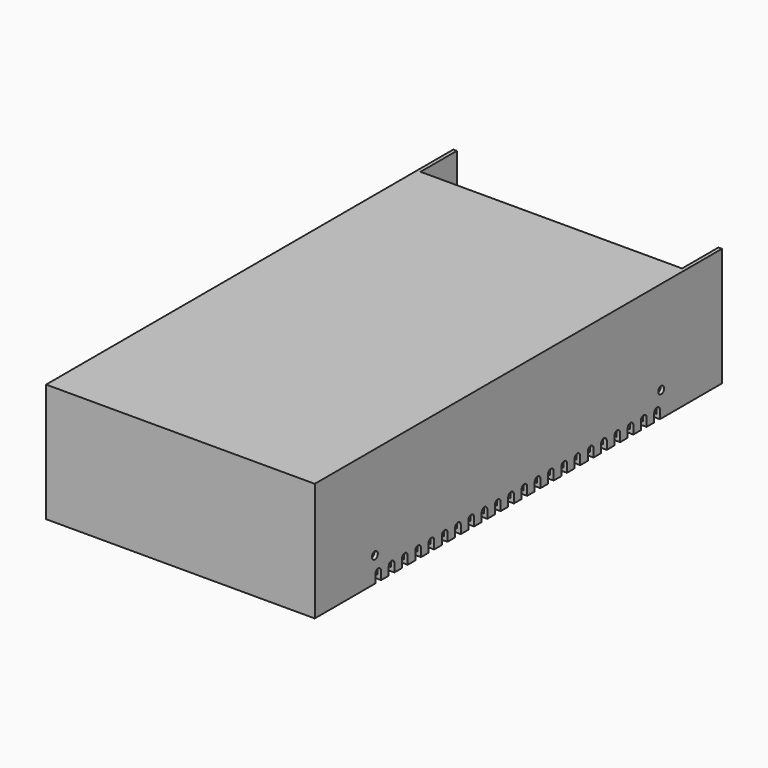
from build123d import *

# Parameters (mm, degrees)
F0_W      = 113.35
F0_H      = 214.709
F1_DEPTH  = 50
F3_T      = -1.5
F2_R      = 1.56
F4_DEPTH  = 1.5
F6_DEPTH  = 1.5
F7_W      = 110.35
F7_H      = 19.129
F8_DEPTH  = 1.5
F9_R      = 1.56
F10_DEPTH = 1.5
F11_R     = 1.56
F12_DEPTH = 1.5


with BuildPart() as f1:
    # F0 (on Top) → F1 (new body)
    with BuildSketch(Plane.XY):
        with Locations((0, 0.0001)):
            Rectangle(F0_W, F0_H)
    extrude(amount=F1_DEPTH)

    # F3
    f3_openings = [f1.faces().sort_by_distance(p)[0] for p in [
        (0, 107.3546, 25),
    ]]
    offset(amount=F3_T, openings=f3_openings)

    # F2 (on face) → F4 (cut, through all)
    with BuildSketch(Plane(origin=(0, 0, 0), x_dir=(1, 0, 0), z_dir=(0, 0, -1))):
        with Locations((25, -74.9956)):
            Circle(F2_R)
        with Locations((-25, -74.9956)):
            Circle(F2_R)
        with Locations((25, 75.7944)):
            Circle(F2_R)
        with Locations((-25, 75.7944)):
            Circle(F2_R)
    extrude(amount=-F4_DEPTH, mode=Mode.SUBTRACT)

    # F5 (on face) → F6 (cut)
    with BuildSketch(Plane(origin=(0, 0, 0), x_dir=(1, 0, 0), z_dir=(0, 0, -1))):
        with BuildLine():
            ThreePointArc((-37.395, 75.3544), (-38.895, 73.8544), (-37.395, 72.3544))
            Line((-37.395, 72.3544), (-37.395, 75.3544))
        make_face()
        with BuildLine():
            Line((-56.675, 72.3544), (-37.395, 72.3544))
            ThreePointArc((-37.395, 72.3544), (-38.895, 73.8544), (-37.395, 75.3544))
            Line((-37.395, 75.3544), (-56.675, 75.3544))
            Line((-56.675, 75.3544), (-56.675, 72.3544))
        make_face()
        with BuildLine():
            Line((-37.395, 75.3544), (-37.395, 72.3544))
            ThreePointArc((-37.395, 72.3544), (-36.3343398282, 72.7937398282), (-35.895, 73.8544))
            ThreePointArc((-35.895, 73.8544), (-36.3343398282, 74.9150601718), (-37.395, 75.3544))
        make_face()
        with BuildLine():
            ThreePointArc((38.895, 73.8544), (38.4556601718, 72.7937398282), (37.395, 72.3544))
            Line((37.395, 72.3544), (56.675, 72.3544))
            Line((56.675, 72.3544), (56.675, 75.3544))
            Line((56.675, 75.3544), (37.395, 75.3544))
            ThreePointArc((37.395, 75.3544), (38.4556601718, 74.9150601718), (38.895, 73.8544))
        make_face()
        with BuildLine():
            ThreePointArc((37.395, 75.3544), (35.895, 73.8544), (37.395, 72.3544))
            ThreePointArc((37.395, 72.3544), (38.4556601718, 72.7937398282), (38.895, 73.8544))
            ThreePointArc((38.895, 73.8544), (38.4556601718, 74.9150601718), (37.395, 75.3544))
        make_face()
        with BuildLine():
            Line((-56.675, 65.3544), (-37.395, 65.3544))
            ThreePointArc((-37.395, 65.3544), (-38.895, 66.8544), (-37.395, 68.3544))
            Line((-37.395, 68.3544), (-56.675, 68.3544))
            Line((-56.675, 68.3544), (-56.675, 65.3544))
        make_face()
        with BuildLine():
            ThreePointArc((-37.395, 68.3544), (-38.895, 66.8544), (-37.395, 65.3544))
            ThreePointArc((-37.395, 65.3544), (-36.3343398282, 65.7937398282), (-35.895, 66.8544))
            ThreePointArc((-35.895, 66.8544), (-36.3343398282, 67.9150601718), (-37.395, 68.3544))
        make_face()
        with BuildLine():
            ThreePointArc((37.395, 65.3544), (38.4556601718, 65.7937398282), (38.895, 66.8544))
            ThreePointArc((38.895, 66.8544), (38.4556601718, 67.9150601718), (37.395, 68.3544))
            ThreePointArc((37.395, 68.3544), (35.895, 66.8544), (37.395, 65.3544))
        make_face()
        with BuildLine():
            ThreePointArc((37.395, 68.3544), (38.4556601718, 67.9150601718), (38.895, 66.8544))
            ThreePointArc((38.895, 66.8544), (38.4556601718, 65.7937398282), (37.395, 65.3544))
            Line((37.395, 65.3544), (56.675, 65.3544))
            Line((56.675, 65.3544), (56.675, 68.3544))
            Line((56.675, 68.3544), (37.395, 68.3544))
        make_face()
        with BuildLine():
            Line((-56.675, 58.3544), (-37.395, 58.3544))
            ThreePointArc((-37.395, 58.3544), (-38.895, 59.8544), (-37.395, 61.3544))
            Line((-37.395, 61.3544), (-56.675, 61.3544))
            Line((-56.675, 61.3544), (-56.675, 58.3544))
        make_face()
        with BuildLine():
            ThreePointArc((-37.395, 61.3544), (-38.895, 59.8544), (-37.395, 58.3544))
            ThreePointArc((-37.395, 58.3544), (-36.3343398282, 58.7937398282), (-35.895, 59.8544))
            ThreePointArc((-35.895, 59.8544), (-36.3343398282, 60.9150601718), (-37.395, 61.3544))
        make_face()
        with BuildLine():
            ThreePointArc((37.395, 58.3544), (38.4556601718, 58.7937398282), (38.895, 59.8544))
            ThreePointArc((38.895, 59.8544), (38.4556601718, 60.9150601718), (37.395, 61.3544))
            ThreePointArc((37.395, 61.3544), (35.895, 59.8544), (37.395, 58.3544))
        make_face()
        with BuildLine():
            ThreePointArc((37.395, 61.3544), (38.4556601718, 60.9150601718), (38.895, 59.8544))
            ThreePointArc((38.895, 59.8544), (38.4556601718, 58.7937398282), (37.395, 58.3544))
            Line((37.395, 58.3544), (56.675, 58.3544))
            Line((56.675, 58.3544), (56.675, 61.3544))
            Line((56.675, 61.3544), (37.395, 61.3544))
        make_face()
        with BuildLine():
            Line((-56.675, 51.3544), (-37.395, 51.3544))
            ThreePointArc((-37.395, 51.3544), (-38.895, 52.8544), (-37.395, 54.3544))
            Line((-37.395, 54.3544), (-56.675, 54.3544))
            Line((-56.675, 54.3544), (-56.675, 51.3544))
        make_face()
        with BuildLine():
            ThreePointArc((-37.395, 54.3544), (-38.895, 52.8544), (-37.395, 51.3544))
            ThreePointArc((-37.395, 51.3544), (-36.3343398282, 51.7937398282), (-35.895, 52.8544))
            ThreePointArc((-35.895, 52.8544), (-36.3343398282, 53.9150601718), (-37.395, 54.3544))
        make_face()
        with BuildLine():
            ThreePointArc((37.395, 51.3544), (38.4556601718, 51.7937398282), (38.895, 52.8544))
            ThreePointArc((38.895, 52.8544), (38.4556601718, 53.9150601718), (37.395, 54.3544))
            ThreePointArc((37.395, 54.3544), (35.895, 52.8544), (37.395, 51.3544))
        make_face()
        with BuildLine():
            ThreePointArc((37.395, 54.3544), (38.4556601718, 53.9150601718), (38.895, 52.8544))
            ThreePointArc((38.895, 52.8544), (38.4556601718, 51.7937398282), (37.395, 51.3544))
            Line((37.395, 51.3544), (56.675, 51.3544))
            Line((56.675, 51.3544), (56.675, 54.3544))
            Line((56.675, 54.3544), (37.395, 54.3544))
        make_face()
        with BuildLine():
            Line((-56.675, 44.3544), (-37.395, 44.3544))
            ThreePointArc((-37.395, 44.3544), (-38.895, 45.8544), (-37.395, 47.3544))
            Line((-37.395, 47.3544), (-56.675, 47.3544))
            Line((-56.675, 47.3544), (-56.675, 44.3544))
        make_face()
        with BuildLine():
            ThreePointArc((-37.395, 47.3544), (-38.895, 45.8544), (-37.395, 44.3544))
            ThreePointArc((-37.395, 44.3544), (-36.3343398282, 44.7937398282), (-35.895, 45.8544))
            ThreePointArc((-35.895, 45.8544), (-36.3343398282, 46.9150601718), (-37.395, 47.3544))
        make_face()
        with BuildLine():
            ThreePointArc((37.395, 44.3544), (38.4556601718, 44.7937398282), (38.895, 45.8544))
            ThreePointArc((38.895, 45.8544), (38.4556601718, 46.9150601718), (37.395, 47.3544))
            ThreePointArc((37.395, 47.3544), (35.895, 45.8544), (37.395, 44.3544))
        make_face()
        with BuildLine():
            ThreePointArc((37.395, 47.3544), (38.4556601718, 46.9150601718), (38.895, 45.8544))
            ThreePointArc((38.895, 45.8544), (38.4556601718, 44.7937398282), (37.395, 44.3544))
            Line((37.395, 44.3544), (56.675, 44.3544))
            Line((56.675, 44.3544), (56.675, 47.3544))
            Line((56.675, 47.3544), (37.395, 47.3544))
        make_face()
        with BuildLine():
            Line((-56.675, 37.3544), (-37.395, 37.3544))
            ThreePointArc((-37.395, 37.3544), (-38.895, 38.8544), (-37.395, 40.3544))
            Line((-37.395, 40.3544), (-56.675, 40.3544))
            Line((-56.675, 40.3544), (-56.675, 37.3544))
        make_face()
        with BuildLine():
            ThreePointArc((-37.395, 40.3544), (-38.895, 38.8544), (-37.395, 37.3544))
            ThreePointArc((-37.395, 37.3544), (-36.3343398282, 37.7937398282), (-35.895, 38.8544))
            ThreePointArc((-35.895, 38.8544), (-36.3343398282, 39.9150601718), (-37.395, 40.3544))
        make_face()
        with BuildLine():
            ThreePointArc((37.395, 37.3544), (38.4556601718, 37.7937398282), (38.895, 38.8544))
            ThreePointArc((38.895, 38.8544), (38.4556601718, 39.9150601718), (37.395, 40.3544))
            ThreePointArc((37.395, 40.3544), (35.895, 38.8544), (37.395, 37.3544))
        make_face()
        with BuildLine():
            ThreePointArc((37.395, 40.3544), (38.4556601718, 39.9150601718), (38.895, 38.8544))
            ThreePointArc((38.895, 38.8544), (38.4556601718, 37.7937398282), (37.395, 37.3544))
            Line((37.395, 37.3544), (56.675, 37.3544))
            Line((56.675, 37.3544), (56.675, 40.3544))
            Line((56.675, 40.3544), (37.395, 40.3544))
        make_face()
        with BuildLine():
            Line((-56.675, 30.3544), (-37.395, 30.3544))
            ThreePointArc((-37.395, 30.3544), (-38.895, 31.8544), (-37.395, 33.3544))
            Line((-37.395, 33.3544), (-56.675, 33.3544))
            Line((-56.675, 33.3544), (-56.675, 30.3544))
        make_face()
        with BuildLine():
            ThreePointArc((-37.395, 33.3544), (-38.895, 31.8544), (-37.395, 30.3544))
            ThreePointArc((-37.395, 30.3544), (-36.3343398282, 30.7937398282), (-35.895, 31.8544))
            ThreePointArc((-35.895, 31.8544), (-36.3343398282, 32.9150601718), (-37.395, 33.3544))
        make_face()
        with BuildLine():
            ThreePointArc((37.395, 30.3544), (38.4556601718, 30.7937398282), (38.895, 31.8544))
            ThreePointArc((38.895, 31.8544), (38.4556601718, 32.9150601718), (37.395, 33.3544))
            ThreePointArc((37.395, 33.3544), (35.895, 31.8544), (37.395, 30.3544))
        make_face()
        with BuildLine():
            ThreePointArc((37.395, 33.3544), (38.4556601718, 32.9150601718), (38.895, 31.8544))
            ThreePointArc((38.895, 31.8544), (38.4556601718, 30.7937398282), (37.395, 30.3544))
            Line((37.395, 30.3544), (56.675, 30.3544))
            Line((56.675, 30.3544), (56.675, 33.3544))
            Line((56.675, 33.3544), (37.395, 33.3544))
        make_face()
        with BuildLine():
            Line((-56.675, 23.3544), (-37.395, 23.3544))
            ThreePointArc((-37.395, 23.3544), (-38.895, 24.8544), (-37.395, 26.3544))
            Line((-37.395, 26.3544), (-56.675, 26.3544))
            Line((-56.675, 26.3544), (-56.675, 23.3544))
        make_face()
        with BuildLine():
            ThreePointArc((-37.395, 26.3544), (-38.895, 24.8544), (-37.395, 23.3544))
            ThreePointArc((-37.395, 23.3544), (-36.3343398282, 23.7937398282), (-35.895, 24.8544))
            ThreePointArc((-35.895, 24.8544), (-36.3343398282, 25.9150601718), (-37.395, 26.3544))
        make_face()
        with BuildLine():
            ThreePointArc((37.395, 23.3544), (38.4556601718, 23.7937398282), (38.895, 24.8544))
            ThreePointArc((38.895, 24.8544), (38.4556601718, 25.9150601718), (37.395, 26.3544))
            ThreePointArc((37.395, 26.3544), (35.895, 24.8544), (37.395, 23.3544))
        make_face()
        with BuildLine():
            ThreePointArc((37.395, 26.3544), (38.4556601718, 25.9150601718), (38.895, 24.8544))
            ThreePointArc((38.895, 24.8544), (38.4556601718, 23.7937398282), (37.395, 23.3544))
            Line((37.395, 23.3544), (56.675, 23.3544))
            Line((56.675, 23.3544), (56.675, 26.3544))
            Line((56.675, 26.3544), (37.395, 26.3544))
        make_face()
        with BuildLine():
            Line((-56.675, 16.3544), (-37.395, 16.3544))
            ThreePointArc((-37.395, 16.3544), (-38.895, 17.8544), (-37.395, 19.3544))
            Line((-37.395, 19.3544), (-56.675, 19.3544))
            Line((-56.675, 19.3544), (-56.675, 16.3544))
        make_face()
        with BuildLine():
            ThreePointArc((-37.395, 19.3544), (-38.895, 17.8544), (-37.395, 16.3544))
            ThreePointArc((-37.395, 16.3544), (-36.3343398282, 16.7937398282), (-35.895, 17.8544))
            ThreePointArc((-35.895, 17.8544), (-36.3343398282, 18.9150601718), (-37.395, 19.3544))
        make_face()
        with BuildLine():
            ThreePointArc((37.395, 16.3544), (38.4556601718, 16.7937398282), (38.895, 17.8544))
            ThreePointArc((38.895, 17.8544), (38.4556601718, 18.9150601718), (37.395, 19.3544))
            ThreePointArc((37.395, 19.3544), (35.895, 17.8544), (37.395, 16.3544))
        make_face()
        with BuildLine():
            ThreePointArc((37.395, 19.3544), (38.4556601718, 18.9150601718), (38.895, 17.8544))
            ThreePointArc((38.895, 17.8544), (38.4556601718, 16.7937398282), (37.395, 16.3544))
            Line((37.395, 16.3544), (56.675, 16.3544))
            Line((56.675, 16.3544), (56.675, 19.3544))
            Line((56.675, 19.3544), (37.395, 19.3544))
        make_face()
        with BuildLine():
            Line((-56.675, 9.3544), (-37.395, 9.3544))
            ThreePointArc((-37.395, 9.3544), (-38.895, 10.8544), (-37.395, 12.3544))
            Line((-37.395, 12.3544), (-56.675, 12.3544))
            Line((-56.675, 12.3544), (-56.675, 9.3544))
        make_face()
        with BuildLine():
            ThreePointArc((-37.395, 12.3544), (-38.895, 10.8544), (-37.395, 9.3544))
            ThreePointArc((-37.395, 9.3544), (-36.3343398282, 9.7937398282), (-35.895, 10.8544))
            ThreePointArc((-35.895, 10.8544), (-36.3343398282, 11.9150601718), (-37.395, 12.3544))
        make_face()
        with BuildLine():
            ThreePointArc((37.395, 9.3544), (38.4556601718, 9.7937398282), (38.895, 10.8544))
            ThreePointArc((38.895, 10.8544), (38.4556601718, 11.9150601718), (37.395, 12.3544))
            ThreePointArc((37.395, 12.3544), (35.895, 10.8544), (37.395, 9.3544))
        make_face()
        with BuildLine():
            ThreePointArc((37.395, 12.3544), (38.4556601718, 11.9150601718), (38.895, 10.8544))
            ThreePointArc((38.895, 10.8544), (38.4556601718, 9.7937398282), (37.395, 9.3544))
            Line((37.395, 9.3544), (56.675, 9.3544))
            Line((56.675, 9.3544), (56.675, 12.3544))
            Line((56.675, 12.3544), (37.395, 12.3544))
        make_face()
        with BuildLine():
            Line((-56.675, 2.3544), (-37.395, 2.3544))
            ThreePointArc((-37.395, 2.3544), (-38.895, 3.8544), (-37.395, 5.3544))
            Line((-37.395, 5.3544), (-56.675, 5.3544))
            Line((-56.675, 5.3544), (-56.675, 2.3544))
        make_face()
        with BuildLine():
            ThreePointArc((-37.395, 5.3544), (-38.895, 3.8544), (-37.395, 2.3544))
            ThreePointArc((-37.395, 2.3544), (-36.3343398282, 2.7937398282), (-35.895, 3.8544))
            ThreePointArc((-35.895, 3.8544), (-36.3343398282, 4.9150601718), (-37.395, 5.3544))
        make_face()
        with BuildLine():
            ThreePointArc((37.395, 2.3544), (38.4556601718, 2.7937398282), (38.895, 3.8544))
            ThreePointArc((38.895, 3.8544), (38.4556601718, 4.9150601718), (37.395, 5.3544))
            ThreePointArc((37.395, 5.3544), (35.895, 3.8544), (37.395, 2.3544))
        make_face()
        with BuildLine():
            ThreePointArc((37.395, 5.3544), (38.4556601718, 4.9150601718), (38.895, 3.8544))
            ThreePointArc((38.895, 3.8544), (38.4556601718, 2.7937398282), (37.395, 2.3544))
            Line((37.395, 2.3544), (56.675, 2.3544))
            Line((56.675, 2.3544), (56.675, 5.3544))
            Line((56.675, 5.3544), (37.395, 5.3544))
        make_face()
        with BuildLine():
            Line((-56.675, -4.6456), (-37.395, -4.6456))
            ThreePointArc((-37.395, -4.6456), (-38.895, -3.1456), (-37.395, -1.6456))
            Line((-37.395, -1.6456), (-56.675, -1.6456))
            Line((-56.675, -1.6456), (-56.675, -4.6456))
        make_face()
        with BuildLine():
            ThreePointArc((-37.395, -1.6456), (-38.895, -3.1456), (-37.395, -4.6456))
            ThreePointArc((-37.395, -4.6456), (-36.3343398282, -4.2062601718), (-35.895, -3.1456))
            ThreePointArc((-35.895, -3.1456), (-36.3343398282, -2.0849398282), (-37.395, -1.6456))
        make_face()
        with BuildLine():
            ThreePointArc((37.395, -4.6456), (38.4556601718, -4.2062601718), (38.895, -3.1456))
            ThreePointArc((38.895, -3.1456), (38.4556601718, -2.0849398282), (37.395, -1.6456))
            ThreePointArc((37.395, -1.6456), (35.895, -3.1456), (37.395, -4.6456))
        make_face()
        with BuildLine():
            ThreePointArc((37.395, -1.6456), (38.4556601718, -2.0849398282), (38.895, -3.1456))
            ThreePointArc((38.895, -3.1456), (38.4556601718, -4.2062601718), (37.395, -4.6456))
            Line((37.395, -4.6456), (56.675, -4.6456))
            Line((56.675, -4.6456), (56.675, -1.6456))
            Line((56.675, -1.6456), (37.395, -1.6456))
        make_face()
        with BuildLine():
            Line((-56.675, -11.6456), (-37.395, -11.6456))
            ThreePointArc((-37.395, -11.6456), (-38.895, -10.1456), (-37.395, -8.6456))
            Line((-37.395, -8.6456), (-56.675, -8.6456))
            Line((-56.675, -8.6456), (-56.675, -11.6456))
        make_face()
        with BuildLine():
            ThreePointArc((-37.395, -8.6456), (-38.895, -10.1456), (-37.395, -11.6456))
            ThreePointArc((-37.395, -11.6456), (-36.3343398282, -11.2062601718), (-35.895, -10.1456))
            ThreePointArc((-35.895, -10.1456), (-36.3343398282, -9.0849398282), (-37.395, -8.6456))
        make_face()
        with BuildLine():
            ThreePointArc((37.395, -11.6456), (38.4556601718, -11.2062601718), (38.895, -10.1456))
            ThreePointArc((38.895, -10.1456), (38.4556601718, -9.0849398282), (37.395, -8.6456))
            ThreePointArc((37.395, -8.6456), (35.895, -10.1456), (37.395, -11.6456))
        make_face()
        with BuildLine():
            ThreePointArc((37.395, -8.6456), (38.4556601718, -9.0849398282), (38.895, -10.1456))
            ThreePointArc((38.895, -10.1456), (38.4556601718, -11.2062601718), (37.395, -11.6456))
            Line((37.395, -11.6456), (56.675, -11.6456))
            Line((56.675, -11.6456), (56.675, -8.6456))
            Line((56.675, -8.6456), (37.395, -8.6456))
        make_face()
        with BuildLine():
            Line((-56.675, -18.6456), (-37.395, -18.6456))
            ThreePointArc((-37.395, -18.6456), (-38.895, -17.1456), (-37.395, -15.6456))
            Line((-37.395, -15.6456), (-56.675, -15.6456))
            Line((-56.675, -15.6456), (-56.675, -18.6456))
        make_face()
        with BuildLine():
            ThreePointArc((-37.395, -15.6456), (-38.895, -17.1456), (-37.395, -18.6456))
            ThreePointArc((-37.395, -18.6456), (-36.3343398282, -18.2062601718), (-35.895, -17.1456))
            ThreePointArc((-35.895, -17.1456), (-36.3343398282, -16.0849398282), (-37.395, -15.6456))
        make_face()
        with BuildLine():
            ThreePointArc((37.395, -18.6456), (38.4556601718, -18.2062601718), (38.895, -17.1456))
            ThreePointArc((38.895, -17.1456), (38.4556601718, -16.0849398282), (37.395, -15.6456))
            ThreePointArc((37.395, -15.6456), (35.895, -17.1456), (37.395, -18.6456))
        make_face()
        with BuildLine():
            ThreePointArc((37.395, -15.6456), (38.4556601718, -16.0849398282), (38.895, -17.1456))
            ThreePointArc((38.895, -17.1456), (38.4556601718, -18.2062601718), (37.395, -18.6456))
            Line((37.395, -18.6456), (56.675, -18.6456))
            Line((56.675, -18.6456), (56.675, -15.6456))
            Line((56.675, -15.6456), (37.395, -15.6456))
        make_face()
        with BuildLine():
            Line((-56.675, -25.6456), (-37.395, -25.6456))
            ThreePointArc((-37.395, -25.6456), (-38.895, -24.1456), (-37.395, -22.6456))
            Line((-37.395, -22.6456), (-56.675, -22.6456))
            Line((-56.675, -22.6456), (-56.675, -25.6456))
        make_face()
        with BuildLine():
            ThreePointArc((-37.395, -22.6456), (-38.895, -24.1456), (-37.395, -25.6456))
            ThreePointArc((-37.395, -25.6456), (-36.3343398282, -25.2062601718), (-35.895, -24.1456))
            ThreePointArc((-35.895, -24.1456), (-36.3343398282, -23.0849398282), (-37.395, -22.6456))
        make_face()
        with BuildLine():
            ThreePointArc((37.395, -25.6456), (38.4556601718, -25.2062601718), (38.895, -24.1456))
            ThreePointArc((38.895, -24.1456), (38.4556601718, -23.0849398282), (37.395, -22.6456))
            ThreePointArc((37.395, -22.6456), (35.895, -24.1456), (37.395, -25.6456))
        make_face()
        with BuildLine():
            ThreePointArc((37.395, -22.6456), (38.4556601718, -23.0849398282), (38.895, -24.1456))
            ThreePointArc((38.895, -24.1456), (38.4556601718, -25.2062601718), (37.395, -25.6456))
            Line((37.395, -25.6456), (56.675, -25.6456))
            Line((56.675, -25.6456), (56.675, -22.6456))
            Line((56.675, -22.6456), (37.395, -22.6456))
        make_face()
        with BuildLine():
            Line((-56.675, -32.6456), (-37.395, -32.6456))
            ThreePointArc((-37.395, -32.6456), (-38.895, -31.1456), (-37.395, -29.6456))
            Line((-37.395, -29.6456), (-56.675, -29.6456))
            Line((-56.675, -29.6456), (-56.675, -32.6456))
        make_face()
        with BuildLine():
            ThreePointArc((-37.395, -29.6456), (-38.895, -31.1456), (-37.395, -32.6456))
            ThreePointArc((-37.395, -32.6456), (-36.3343398282, -32.2062601718), (-35.895, -31.1456))
            ThreePointArc((-35.895, -31.1456), (-36.3343398282, -30.0849398282), (-37.395, -29.6456))
        make_face()
        with BuildLine():
            ThreePointArc((37.395, -32.6456), (38.4556601718, -32.2062601718), (38.895, -31.1456))
            ThreePointArc((38.895, -31.1456), (38.4556601718, -30.0849398282), (37.395, -29.6456))
            ThreePointArc((37.395, -29.6456), (35.895, -31.1456), (37.395, -32.6456))
        make_face()
        with BuildLine():
            ThreePointArc((37.395, -29.6456), (38.4556601718, -30.0849398282), (38.895, -31.1456))
            ThreePointArc((38.895, -31.1456), (38.4556601718, -32.2062601718), (37.395, -32.6456))
            Line((37.395, -32.6456), (56.675, -32.6456))
            Line((56.675, -32.6456), (56.675, -29.6456))
            Line((56.675, -29.6456), (37.395, -29.6456))
        make_face()
        with BuildLine():
            Line((-56.675, -39.6456), (-37.395, -39.6456))
            ThreePointArc((-37.395, -39.6456), (-38.895, -38.1456), (-37.395, -36.6456))
            Line((-37.395, -36.6456), (-56.675, -36.6456))
            Line((-56.675, -36.6456), (-56.675, -39.6456))
        make_face()
        with BuildLine():
            ThreePointArc((-37.395, -36.6456), (-38.895, -38.1456), (-37.395, -39.6456))
            ThreePointArc((-37.395, -39.6456), (-36.3343398282, -39.2062601718), (-35.895, -38.1456))
            ThreePointArc((-35.895, -38.1456), (-36.3343398282, -37.0849398282), (-37.395, -36.6456))
        make_face()
        with BuildLine():
            ThreePointArc((37.395, -39.6456), (38.4556601718, -39.2062601718), (38.895, -38.1456))
            ThreePointArc((38.895, -38.1456), (38.4556601718, -37.0849398282), (37.395, -36.6456))
            ThreePointArc((37.395, -36.6456), (35.895, -38.1456), (37.395, -39.6456))
        make_face()
        with BuildLine():
            ThreePointArc((37.395, -36.6456), (38.4556601718, -37.0849398282), (38.895, -38.1456))
            ThreePointArc((38.895, -38.1456), (38.4556601718, -39.2062601718), (37.395, -39.6456))
            Line((37.395, -39.6456), (56.675, -39.6456))
            Line((56.675, -39.6456), (56.675, -36.6456))
            Line((56.675, -36.6456), (37.395, -36.6456))
        make_face()
        with BuildLine():
            Line((-56.675, -46.6456), (-37.395, -46.6456))
            ThreePointArc((-37.395, -46.6456), (-38.895, -45.1456), (-37.395, -43.6456))
            Line((-37.395, -43.6456), (-56.675, -43.6456))
            Line((-56.675, -43.6456), (-56.675, -46.6456))
        make_face()
        with BuildLine():
            ThreePointArc((-37.395, -43.6456), (-38.895, -45.1456), (-37.395, -46.6456))
            ThreePointArc((-37.395, -46.6456), (-36.3343398282, -46.2062601718), (-35.895, -45.1456))
            ThreePointArc((-35.895, -45.1456), (-36.3343398282, -44.0849398282), (-37.395, -43.6456))
        make_face()
        with BuildLine():
            ThreePointArc((37.395, -46.6456), (38.4556601718, -46.2062601718), (38.895, -45.1456))
            ThreePointArc((38.895, -45.1456), (38.4556601718, -44.0849398282), (37.395, -43.6456))
            ThreePointArc((37.395, -43.6456), (35.895, -45.1456), (37.395, -46.6456))
        make_face()
        with BuildLine():
            ThreePointArc((37.395, -43.6456), (38.4556601718, -44.0849398282), (38.895, -45.1456))
            ThreePointArc((38.895, -45.1456), (38.4556601718, -46.2062601718), (37.395, -46.6456))
            Line((37.395, -46.6456), (56.675, -46.6456))
            Line((56.675, -46.6456), (56.675, -43.6456))
            Line((56.675, -43.6456), (37.395, -43.6456))
        make_face()
        with BuildLine():
            Line((-56.675, -53.6456), (-37.395, -53.6456))
            ThreePointArc((-37.395, -53.6456), (-38.895, -52.1456), (-37.395, -50.6456))
            Line((-37.395, -50.6456), (-56.675, -50.6456))
            Line((-56.675, -50.6456), (-56.675, -53.6456))
        make_face()
        with BuildLine():
            ThreePointArc((-37.395, -50.6456), (-38.895, -52.1456), (-37.395, -53.6456))
            ThreePointArc((-37.395, -53.6456), (-36.3343398282, -53.2062601718), (-35.895, -52.1456))
            ThreePointArc((-35.895, -52.1456), (-36.3343398282, -51.0849398282), (-37.395, -50.6456))
        make_face()
        with BuildLine():
            ThreePointArc((37.395, -53.6456), (38.4556601718, -53.2062601718), (38.895, -52.1456))
            ThreePointArc((38.895, -52.1456), (38.4556601718, -51.0849398282), (37.395, -50.6456))
            ThreePointArc((37.395, -50.6456), (35.895, -52.1456), (37.395, -53.6456))
        make_face()
        with BuildLine():
            ThreePointArc((37.395, -50.6456), (38.4556601718, -51.0849398282), (38.895, -52.1456))
            ThreePointArc((38.895, -52.1456), (38.4556601718, -53.2062601718), (37.395, -53.6456))
            Line((37.395, -53.6456), (56.675, -53.6456))
            Line((56.675, -53.6456), (56.675, -50.6456))
            Line((56.675, -50.6456), (37.395, -50.6456))
        make_face()
        with BuildLine():
            Line((-56.675, -60.6456), (-37.395, -60.6456))
            ThreePointArc((-37.395, -60.6456), (-38.895, -59.1456), (-37.395, -57.6456))
            Line((-37.395, -57.6456), (-56.675, -57.6456))
            Line((-56.675, -57.6456), (-56.675, -60.6456))
        make_face()
        with BuildLine():
            ThreePointArc((-37.395, -57.6456), (-38.895, -59.1456), (-37.395, -60.6456))
            ThreePointArc((-37.395, -60.6456), (-36.3343398282, -60.2062601718), (-35.895, -59.1456))
            ThreePointArc((-35.895, -59.1456), (-36.3343398282, -58.0849398282), (-37.395, -57.6456))
        make_face()
        with BuildLine():
            ThreePointArc((37.395, -60.6456), (38.4556601718, -60.2062601718), (38.895, -59.1456))
            ThreePointArc((38.895, -59.1456), (38.4556601718, -58.0849398282), (37.395, -57.6456))
            ThreePointArc((37.395, -57.6456), (35.895, -59.1456), (37.395, -60.6456))
        make_face()
        with BuildLine():
            ThreePointArc((37.395, -57.6456), (38.4556601718, -58.0849398282), (38.895, -59.1456))
            ThreePointArc((38.895, -59.1456), (38.4556601718, -60.2062601718), (37.395, -60.6456))
            Line((37.395, -60.6456), (56.675, -60.6456))
            Line((56.675, -60.6456), (56.675, -57.6456))
            Line((56.675, -57.6456), (37.395, -57.6456))
        make_face()
        with BuildLine():
            Line((-56.675, -67.6456), (-37.395, -67.6456))
            ThreePointArc((-37.395, -67.6456), (-38.895, -66.1456), (-37.395, -64.6456))
            Line((-37.395, -64.6456), (-56.675, -64.6456))
            Line((-56.675, -64.6456), (-56.675, -67.6456))
        make_face()
        with BuildLine():
            ThreePointArc((-37.395, -64.6456), (-38.895, -66.1456), (-37.395, -67.6456))
            ThreePointArc((-37.395, -67.6456), (-36.3343398282, -67.2062601718), (-35.895, -66.1456))
            ThreePointArc((-35.895, -66.1456), (-36.3343398282, -65.0849398282), (-37.395, -64.6456))
        make_face()
        with BuildLine():
            ThreePointArc((37.395, -67.6456), (38.4556601718, -67.2062601718), (38.895, -66.1456))
            ThreePointArc((38.895, -66.1456), (38.4556601718, -65.0849398282), (37.395, -64.6456))
            ThreePointArc((37.395, -64.6456), (35.895, -66.1456), (37.395, -67.6456))
        make_face()
        with BuildLine():
            ThreePointArc((37.395, -64.6456), (38.4556601718, -65.0849398282), (38.895, -66.1456))
            ThreePointArc((38.895, -66.1456), (38.4556601718, -67.2062601718), (37.395, -67.6456))
            Line((37.395, -67.6456), (56.675, -67.6456))
            Line((56.675, -67.6456), (56.675, -64.6456))
            Line((56.675, -64.6456), (37.395, -64.6456))
        make_face()
        with BuildLine():
            Line((-56.675, -74.6456), (-37.395, -74.6456))
            ThreePointArc((-37.395, -74.6456), (-38.895, -73.1456), (-37.395, -71.6456))
            Line((-37.395, -71.6456), (-56.675, -71.6456))
            Line((-56.675, -71.6456), (-56.675, -74.6456))
        make_face()
        with BuildLine():
            ThreePointArc((-37.395, -71.6456), (-38.895, -73.1456), (-37.395, -74.6456))
            ThreePointArc((-37.395, -74.6456), (-36.3343398282, -74.2062601718), (-35.895, -73.1456))
            ThreePointArc((-35.895, -73.1456), (-36.3343398282, -72.0849398282), (-37.395, -71.6456))
        make_face()
        with BuildLine():
            ThreePointArc((37.395, -74.6456), (38.4556601718, -74.2062601718), (38.895, -73.1456))
            ThreePointArc((38.895, -73.1456), (38.4556601718, -72.0849398282), (37.395, -71.6456))
            ThreePointArc((37.395, -71.6456), (35.895, -73.1456), (37.395, -74.6456))
        make_face()
        with BuildLine():
            ThreePointArc((37.395, -71.6456), (38.4556601718, -72.0849398282), (38.895, -73.1456))
            ThreePointArc((38.895, -73.1456), (38.4556601718, -74.2062601718), (37.395, -74.6456))
            Line((37.395, -74.6456), (56.675, -74.6456))
            Line((56.675, -74.6456), (56.675, -71.6456))
            Line((56.675, -71.6456), (37.395, -71.6456))
        make_face()
    extrude(amount=-F6_DEPTH, mode=Mode.SUBTRACT)

    # F7 (on face) → F8 (cut, through all)
    with BuildSketch(Plane.XY.offset(50)):
        with Locations((0, 97.7901)):
            Rectangle(F7_W, F7_H)
    extrude(amount=-F8_DEPTH, mode=Mode.SUBTRACT)

    # F9 (on face) → F10 (cut)
    with BuildSketch(Plane.YZ.offset(56.675)):
        with BuildLine():
            Line((71.6456, 3.5), (71.6456, 1.5))
            Line((71.6456, 1.5), (74.6456, 1.5))
            Line((74.6456, 1.5), (74.6456, 3.5))
            ThreePointArc((74.6456, 3.5), (73.1456, 5), (71.6456, 3.5))
        make_face()
        with BuildLine():
            Line((64.6456, 3.5), (64.6456, 1.5))
            Line((64.6456, 1.5), (67.6456, 1.5))
            Line((67.6456, 1.5), (67.6456, 3.5))
            ThreePointArc((67.6456, 3.5), (66.1456, 5), (64.6456, 3.5))
        make_face()
        with BuildLine():
            Line((57.6456, 3.5), (57.6456, 1.5))
            Line((57.6456, 1.5), (60.6456, 1.5))
            Line((60.6456, 1.5), (60.6456, 3.5))
            ThreePointArc((60.6456, 3.5), (59.1456, 5), (57.6456, 3.5))
        make_face()
        with BuildLine():
            Line((50.6456, 3.5), (50.6456, 1.5))
            Line((50.6456, 1.5), (53.6456, 1.5))
            Line((53.6456, 1.5), (53.6456, 3.5))
            ThreePointArc((53.6456, 3.5), (52.1456, 5), (50.6456, 3.5))
        make_face()
        with BuildLine():
            Line((43.6456, 3.5), (43.6456, 1.5))
            Line((43.6456, 1.5), (46.6456, 1.5))
            Line((46.6456, 1.5), (46.6456, 3.5))
            ThreePointArc((46.6456, 3.5), (45.1456, 5), (43.6456, 3.5))
        make_face()
        with BuildLine():
            Line((36.6456, 3.5), (36.6456, 1.5))
            Line((36.6456, 1.5), (39.6456, 1.5))
            Line((39.6456, 1.5), (39.6456, 3.5))
            ThreePointArc((39.6456, 3.5), (38.1456, 5), (36.6456, 3.5))
        make_face()
        with BuildLine():
            Line((29.6456, 3.5), (29.6456, 1.5))
            Line((29.6456, 1.5), (32.6456, 1.5))
            Line((32.6456, 1.5), (32.6456, 3.5))
            ThreePointArc((32.6456, 3.5), (31.1456, 5), (29.6456, 3.5))
        make_face()
        with BuildLine():
            Line((22.6456, 3.5), (22.6456, 1.5))
            Line((22.6456, 1.5), (25.6456, 1.5))
            Line((25.6456, 1.5), (25.6456, 3.5))
            ThreePointArc((25.6456, 3.5), (24.1456, 5), (22.6456, 3.5))
        make_face()
        with BuildLine():
            Line((15.6456, 3.5), (15.6456, 1.5))
            Line((15.6456, 1.5), (18.6456, 1.5))
            Line((18.6456, 1.5), (18.6456, 3.5))
            ThreePointArc((18.6456, 3.5), (17.1456, 5), (15.6456, 3.5))
        make_face()
        with BuildLine():
            Line((8.6456, 3.5), (8.6456, 1.5))
            Line((8.6456, 1.5), (11.6456, 1.5))
            Line((11.6456, 1.5), (11.6456, 3.5))
            ThreePointArc((11.6456, 3.5), (10.1456, 5), (8.6456, 3.5))
        make_face()
        with BuildLine():
            Line((1.6456, 3.5), (1.6456, 1.5))
            Line((1.6456, 1.5), (4.6456, 1.5))
            Line((4.6456, 1.5), (4.6456, 3.5))
            ThreePointArc((4.6456, 3.5), (3.1456, 5), (1.6456, 3.5))
        make_face()
        with BuildLine():
            Line((-5.3544, 3.5), (-5.3544, 1.5))
            Line((-5.3544, 1.5), (-2.3544, 1.5))
            Line((-2.3544, 1.5), (-2.3544, 3.5))
            ThreePointArc((-2.3544, 3.5), (-3.8544, 5), (-5.3544, 3.5))
        make_face()
        with BuildLine():
            Line((-12.3544, 3.5), (-12.3544, 1.5))
            Line((-12.3544, 1.5), (-9.3544, 1.5))
            Line((-9.3544, 1.5), (-9.3544, 3.5))
            ThreePointArc((-9.3544, 3.5), (-10.8544, 5), (-12.3544, 3.5))
        make_face()
        with BuildLine():
            Line((-19.3544, 3.5), (-19.3544, 1.5))
            Line((-19.3544, 1.5), (-16.3544, 1.5))
            Line((-16.3544, 1.5), (-16.3544, 3.5))
            ThreePointArc((-16.3544, 3.5), (-17.8544, 5), (-19.3544, 3.5))
        make_face()
        with BuildLine():
            Line((-26.3544, 3.5), (-26.3544, 1.5))
            Line((-26.3544, 1.5), (-23.3544, 1.5))
            Line((-23.3544, 1.5), (-23.3544, 3.5))
            ThreePointArc((-23.3544, 3.5), (-24.8544, 5), (-26.3544, 3.5))
        make_face()
        with BuildLine():
            Line((-33.3544, 3.5), (-33.3544, 1.5))
            Line((-33.3544, 1.5), (-30.3544, 1.5))
            Line((-30.3544, 1.5), (-30.3544, 3.5))
            ThreePointArc((-30.3544, 3.5), (-31.8544, 5), (-33.3544, 3.5))
        make_face()
        with BuildLine():
            Line((-40.3544, 3.5), (-40.3544, 1.5))
            Line((-40.3544, 1.5), (-37.3544, 1.5))
            Line((-37.3544, 1.5), (-37.3544, 3.5))
            ThreePointArc((-37.3544, 3.5), (-38.8544, 5), (-40.3544, 3.5))
        make_face()
        with BuildLine():
            Line((-47.3544, 3.5), (-47.3544, 1.5))
            Line((-47.3544, 1.5), (-44.3544, 1.5))
            Line((-44.3544, 1.5), (-44.3544, 3.5))
            ThreePointArc((-44.3544, 3.5), (-45.8544, 5), (-47.3544, 3.5))
        make_face()
        with BuildLine():
            Line((-54.3544, 3.5), (-54.3544, 1.5))
            Line((-54.3544, 1.5), (-51.3544, 1.5))
            Line((-51.3544, 1.5), (-51.3544, 3.5))
            ThreePointArc((-51.3544, 3.5), (-52.8544, 5), (-54.3544, 3.5))
        make_face()
        with BuildLine():
            Line((-61.3544, 3.5), (-61.3544, 1.5))
            Line((-61.3544, 1.5), (-58.3544, 1.5))
            Line((-58.3544, 1.5), (-58.3544, 3.5))
            ThreePointArc((-58.3544, 3.5), (-59.8544, 5), (-61.3544, 3.5))
        make_face()
        with BuildLine():
            Line((-68.3544, 3.5), (-68.3544, 1.5))
            Line((-68.3544, 1.5), (-65.3544, 1.5))
            Line((-65.3544, 1.5), (-65.3544, 3.5))
            ThreePointArc((-65.3544, 3.5), (-66.8544, 5), (-68.3544, 3.5))
        make_face()
        with BuildLine():
            Line((-75.3544, 3.5), (-75.3544, 1.5))
            Line((-75.3544, 1.5), (-72.3544, 1.5))
            Line((-72.3544, 1.5), (-72.3544, 3.5))
            ThreePointArc((-72.3544, 3.5), (-73.8544, 5), (-75.3544, 3.5))
        make_face()
        with Locations((-75.6444, 10.56)):
            Circle(F9_R)
        with Locations((75.3446, 10.56)):
            Circle(F9_R)
    extrude(amount=-F10_DEPTH, mode=Mode.SUBTRACT)

    # F11 (on face) → F12 (cut)
    with BuildSketch(Plane(origin=(-56.675, 0, 0), x_dir=(0, -1, 0), z_dir=(-1, 0, 0))):
        with Locations((-75.3446, 10.56)):
            Circle(F11_R)
        with Locations((75.6444, 10.56)):
            Circle(F11_R)
    extrude(amount=-F12_DEPTH, mode=Mode.SUBTRACT)


solid = f1.part
